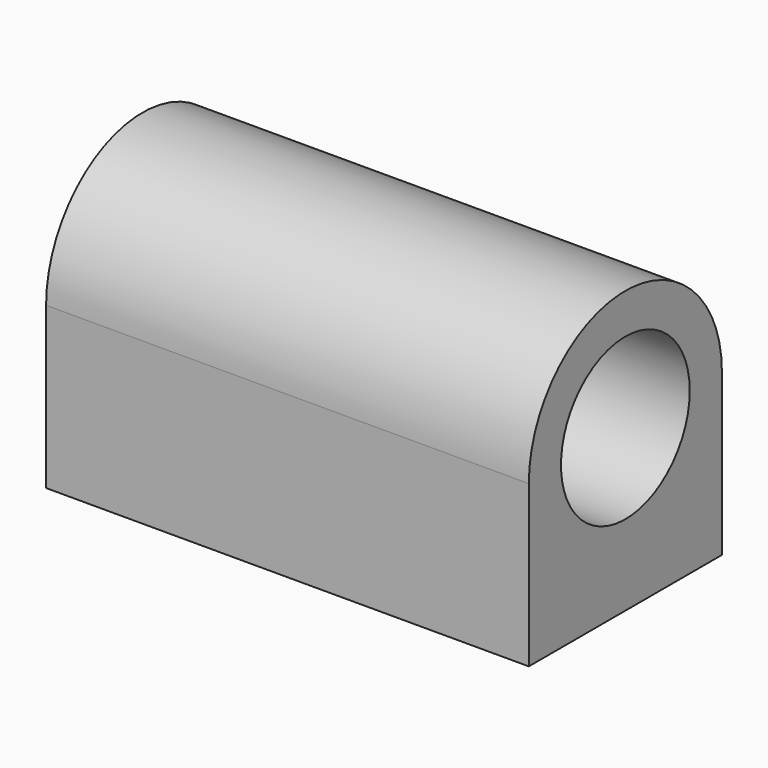
from build123d import *

# Parameters (mm, degrees)
F0_R          = 12.7
F1_DEPTH      = 38.1
F1_DEPTH_BACK = 38.1
F2_R          = 1.651
F3_DEPTH      = 12.7


with BuildPart() as f1:
    # F0 (on Right) → F1 (new body, two sides)
    with BuildSketch(Plane.YZ) as f1_sk:
        with BuildLine():
            Line((19.05, 0), (19.05, 25.4))
            ThreePointArc((19.05, 25.4), (0, 44.45), (-19.05, 25.4))
            Line((-19.05, 25.4), (-19.05, 0))
            Line((-19.05, 0), (19.05, 0))
        make_face()
        with Locations((0, 25.4)):
            Circle(F0_R, mode=Mode.SUBTRACT)
    extrude(amount=F1_DEPTH)
    extrude(f1_sk.sketch, amount=-F1_DEPTH_BACK)

    # F2 (on face) → F3 (cut)
    with BuildSketch(Plane(origin=(0, 0, 0), x_dir=(1, 0, 0), z_dir=(0, 0, -1))):
        with Locations((-31.75, 12.7)):
            Circle(F2_R)
        with Locations((-31.75, -12.7)):
            Circle(F2_R)
        with Locations((31.75, 12.7)):
            Circle(F2_R)
        with Locations((31.75, -12.7)):
            Circle(F2_R)
    extrude(amount=-F3_DEPTH, mode=Mode.SUBTRACT)


solid = f1.part
